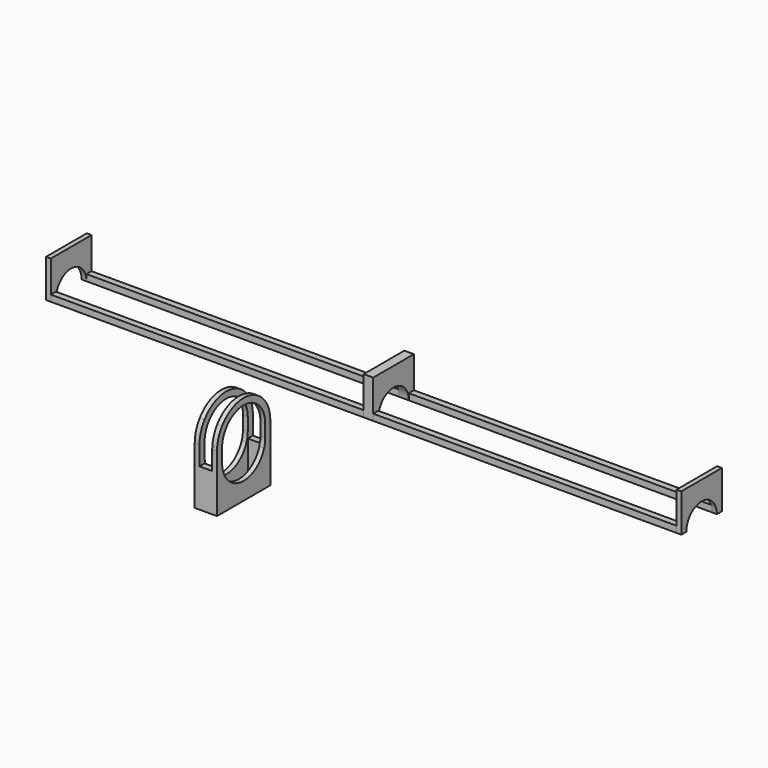
from build123d import *

# Parameters (mm, degrees)
F2_W      = 98.5
F2_H      = 2
F2_W_2    = 3
F2_W_3    = 95.5
F2_W_4    = 1.5
F3_DEPTH  = 2
F2_H_2    = 12
F4_DEPTH  = 12
F6_DEPTH  = 200.001
F7_W      = 7
F7_H      = 21
F8_DEPTH  = 36
F9_W      = 4
F9_H      = 17
F10_DEPTH = 34
F9_H_2    = 2
F11_DEPTH = 24
F13_DEPTH = 104.6787827614


with BuildPart() as f3:
    # F2 (on Top) → F3 (new body)
    with BuildSketch(Plane.XY):
        with Locations((-102.3193546855, 39.6903362217)):
            Rectangle(F2_W, F2_H)
        with Locations((-51.5693546855, 39.6903362217)):
            Rectangle(F2_W_2, F2_H)
        with Locations((-2.3193546855, 39.6903362217)):
            Rectangle(F2_W_3, F2_H)
        with Locations((-152.3193546855, 39.6903362217)):
            Rectangle(F2_W_4, F2_H)
        with Locations((46.1806453145, 39.6903362217)):
            Rectangle(F2_W_4, F2_H)
    extrude(amount=F3_DEPTH)


with BuildPart() as f3b:
    # F2 (on Top) → F3, piece 2 (new body)
    with BuildSketch(Plane.XY):
        with Locations((46.1806453145, 25.6903362217)):
            Rectangle(F2_W_4, F2_H)
        with Locations((-2.3193546855, 25.6903362217)):
            Rectangle(F2_W_3, F2_H)
        with Locations((-51.5693546855, 25.6903362217)):
            Rectangle(F2_W_2, F2_H)
        with Locations((-102.3193546855, 25.6903362217)):
            Rectangle(F2_W, F2_H)
        with Locations((-152.3193546855, 25.6903362217)):
            Rectangle(F2_W_4, F2_H)
    extrude(amount=F3_DEPTH)


with BuildPart() as f4:
    # F2 (on Top) → F4 (new body)
    with BuildSketch(Plane.XY):
        with Locations((-152.3193546855, 32.6903362217)):
            Rectangle(F2_W_4, F2_H_2)
        with Locations((-152.3193546855, 25.6903362217)):
            Rectangle(F2_W_4, F2_H)
        with Locations((-152.3193546855, 39.6903362217)):
            Rectangle(F2_W_4, F2_H)
    extrude(amount=F4_DEPTH)


with BuildPart() as f4b:
    # F2 (on Top) → F4, piece 2 (new body)
    with BuildSketch(Plane.XY):
        with Locations((-51.5693546855, 32.6903362217)):
            Rectangle(F2_W_2, F2_H_2)
        with Locations((-51.5693546855, 25.6903362217)):
            Rectangle(F2_W_2, F2_H)
        with Locations((-51.5693546855, 39.6903362217)):
            Rectangle(F2_W_2, F2_H)
    extrude(amount=F4_DEPTH)


with BuildPart() as f4c:
    # F2 (on Top) → F4, piece 3 (new body)
    with BuildSketch(Plane.XY):
        with Locations((46.1806453145, 32.6903362217)):
            Rectangle(F2_W_4, F2_H_2)
        with Locations((46.1806453145, 25.6903362217)):
            Rectangle(F2_W_4, F2_H)
        with Locations((46.1806453145, 39.6903362217)):
            Rectangle(F2_W_4, F2_H)
    extrude(amount=F4_DEPTH)


with BuildPart() as f6_tool:
    # F5 (on face) → F6 (new body, through all)
    with BuildSketch(Plane(origin=(-153.0693546855, 0, 0), x_dir=(0, -1, 0), z_dir=(-1, 0, 0))):
        with BuildLine():
            Line((-38.6903362217, 0), (-26.6903362217, 0))
            ThreePointArc((-26.6903362217, 0), (-32.6903362217, 6), (-38.6903362217, 0))
        make_face()
    extrude(amount=-F6_DEPTH)


with BuildPart() as f4_1:
    add(f4.part)

    # F6: cut by f6_tool
    add(f6_tool.part, mode=Mode.SUBTRACT)


with BuildPart() as f4b_1:
    add(f4b.part)

    # F6: cut by f6_tool
    add(f6_tool.part, mode=Mode.SUBTRACT)


with BuildPart() as f4c_1:
    add(f4c.part)

    # F6: cut by f6_tool
    add(f6_tool.part, mode=Mode.SUBTRACT)


with BuildPart() as f8:
    # F7 (on Top) → F8 (new body)
    with BuildSketch(Plane.XY):
        with Locations((-51.8915719241, -28.3974884252)):
            Rectangle(F7_W, F7_H)
    extrude(amount=F8_DEPTH)

    # F9 (on face) → F10 (cut)
    with BuildSketch(Plane.XY.offset(36)):
        with Locations((-51.8915719241, -28.3974884252)):
            Rectangle(F9_W, F9_H)
    extrude(amount=-F10_DEPTH, mode=Mode.SUBTRACT)

    # F9 (on face) → F11 (cut)
    with BuildSketch(Plane.XY.offset(36)):
        with Locations((-51.8915719241, -37.8974884252)):
            Rectangle(F9_W, F9_H_2)
        with Locations((-51.8915719241, -18.8974884252)):
            Rectangle(F9_W, F9_H_2)
    extrude(amount=-F11_DEPTH, mode=Mode.SUBTRACT)

    # F12 (on face) → F13 (cut, through all)
    with BuildSketch(Plane.YZ.offset(-48.3915719241)):
        with BuildLine():
            ThreePointArc((-20.3546344542, 11.25), (-28.3974884252, 7.5), (-36.4403423963, 11.25))
            ThreePointArc((-36.4403423963, 11.25), (-28.3974884252, 5.5), (-20.3546344542, 11.25))
        make_face()
        with BuildLine():
            Line((-35.8974884252, 14), (-36.8974884252, 14))
            ThreePointArc((-36.8974884252, 14), (-36.7824230927, 12.6061310596), (-36.4403423963, 11.25))
            ThreePointArc((-36.4403423963, 11.25), (-28.3974884252, 7.5), (-20.3546344542, 11.25))
            ThreePointArc((-20.3546344542, 11.25), (-20.0125537578, 12.6061310596), (-19.8974884252, 14))
            Line((-19.8974884252, 14), (-20.8974884252, 14))
            ThreePointArc((-20.8974884252, 14), (-28.3974884252, 9.5), (-35.8974884252, 14))
        make_face()
        with BuildLine():
            Line((-20.8974884252, 14), (-35.8974884252, 14))
            ThreePointArc((-35.8974884252, 14), (-28.3974884252, 9.5), (-20.8974884252, 14))
        make_face()
        with BuildLine():
            Line((-20.8974884252, 18), (-35.8974884252, 18))
            ThreePointArc((-35.8974884252, 18), (-36.3413592908, 17.0240561621), (-36.6588442462, 16))
            ThreePointArc((-36.6588442462, 16), (-36.3413592908, 14.9759438379), (-35.8974884252, 14))
            Line((-35.8974884252, 14), (-20.8974884252, 14))
            ThreePointArc((-20.8974884252, 14), (-20.4536175597, 14.9759438379), (-20.1361326043, 16))
            ThreePointArc((-20.1361326043, 16), (-20.4536175597, 17.0240561621), (-20.8974884252, 18))
        make_face()
        with BuildLine():
            Line((-35.8974884252, 18), (-36.8974884252, 18))
            ThreePointArc((-36.8974884252, 18), (-36.837616519, 16.9929062799), (-36.6588442462, 16))
            ThreePointArc((-36.6588442462, 16), (-36.3413592908, 17.0240561621), (-35.8974884252, 18))
        make_face()
        with BuildLine():
            ThreePointArc((-20.8974884252, 18), (-28.3974884252, 22.5), (-35.8974884252, 18))
            Line((-35.8974884252, 18), (-20.8974884252, 18))
        make_face()
        with BuildLine():
            Line((-20.8974884252, 14), (-19.8974884252, 14))
            ThreePointArc((-19.8974884252, 14), (-19.9573603315, 15.0070937201), (-20.1361326043, 16))
            ThreePointArc((-20.1361326043, 16), (-20.4536175597, 14.9759438379), (-20.8974884252, 14))
        make_face()
        with BuildLine():
            Line((-19.8974884252, 14), (-19.8974884252, 18))
            ThreePointArc((-19.8974884252, 18), (-19.9573603315, 16.9929062799), (-20.1361326043, 16))
            ThreePointArc((-20.1361326043, 16), (-19.9573603315, 15.0070937201), (-19.8974884252, 14))
        make_face()
        with BuildLine():
            ThreePointArc((-20.1361326043, 16), (-19.9573603315, 16.9929062799), (-19.8974884252, 18))
            Line((-19.8974884252, 18), (-20.8974884252, 18))
            ThreePointArc((-20.8974884252, 18), (-20.4536175597, 17.0240561621), (-20.1361326043, 16))
        make_face()
        with BuildLine():
            ThreePointArc((-19.8974884252, 18), (-28.3974884252, 26.5), (-36.8974884252, 18))
            Line((-36.8974884252, 18), (-35.8974884252, 18))
            ThreePointArc((-35.8974884252, 18), (-28.3974884252, 22.5), (-20.8974884252, 18))
            Line((-20.8974884252, 18), (-19.8974884252, 18))
        make_face()
        with BuildLine():
            ThreePointArc((-36.6588442462, 16), (-36.837616519, 16.9929062799), (-36.8974884252, 18))
            Line((-36.8974884252, 18), (-36.8974884252, 14))
            ThreePointArc((-36.8974884252, 14), (-36.837616519, 15.0070937201), (-36.6588442462, 16))
        make_face()
        with BuildLine():
            ThreePointArc((-36.6588442462, 16), (-36.837616519, 15.0070937201), (-36.8974884252, 14))
            Line((-36.8974884252, 14), (-35.8974884252, 14))
            ThreePointArc((-35.8974884252, 14), (-36.3413592908, 14.9759438379), (-36.6588442462, 16))
        make_face()
        with BuildLine():
            Line((-36.8974884252, 24.164414003), (-36.8974884252, 36))
            Line((-36.8974884252, 36), (-38.8974884252, 36))
            Line((-38.8974884252, 36), (-38.8974884252, 18))
            ThreePointArc((-38.8974884252, 18), (-38.3849806029, 21.2403703492), (-36.8974884252, 24.164414003))
        make_face()
        with BuildLine():
            Line((-19.8974884252, 36), (-36.8974884252, 36))
            Line((-36.8974884252, 36), (-36.8974884252, 24.164414003))
            ThreePointArc((-36.8974884252, 24.164414003), (-28.3974884252, 28.5), (-19.8974884252, 24.164414003))
            Line((-19.8974884252, 24.164414003), (-19.8974884252, 36))
        make_face()
        with BuildLine():
            Line((-17.8974884252, 36), (-19.8974884252, 36))
            Line((-19.8974884252, 36), (-19.8974884252, 24.164414003))
            ThreePointArc((-19.8974884252, 24.164414003), (-18.4099962475, 21.2403703492), (-17.8974884252, 18))
            Line((-17.8974884252, 18), (-17.8974884252, 36))
        make_face()
    extrude(amount=-F13_DEPTH, mode=Mode.SUBTRACT)


solid = Compound([f3.part, f3b.part, f4_1.part, f4b_1.part, f4c_1.part, f8.part])
